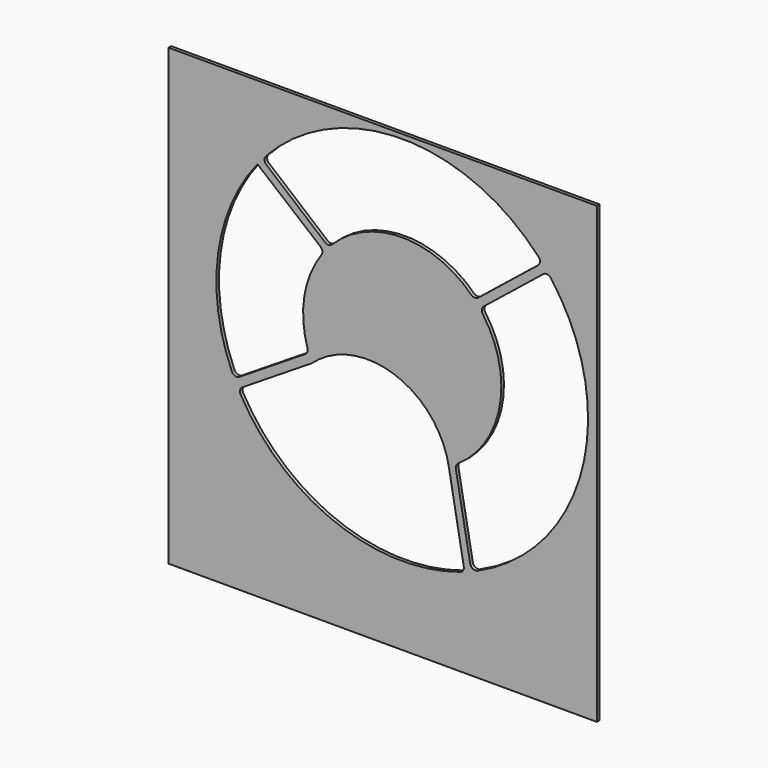
from build123d import *

# Parameters (mm, degrees)
F0_W     = 131.7625
F0_H     = 139.7
F1_DEPTH = 1.016
F2_R     = 1.6002


with BuildPart() as f1:
    # F0 (on Front) → F1 (new body)
    with BuildSketch(Plane.XZ):
        with Locations((-6.007133, -11.380266)):
            Rectangle(F0_W, F0_H)
        with BuildLine():
            ThreePointArc((-27.750563, -12.607008), (-2.499799, -7.357482), (14.326459, -26.903215))
            Line((14.326459, -26.903215), (19.179142, -53.835704))
            ThreePointArc((19.179142, -53.835704), (-20.624326, -53.298778), (-50.421618, -26.903215))
            Line((-50.421618, -26.903215), (-27.750563, -12.607008))
        make_face(mode=Mode.SUBTRACT)
        with BuildLine():
            ThreePointArc((-51.607072, -24.55265), (-56.761106, 6.655776), (-44.527187, 35.8253))
            Line((-44.527187, 35.8253), (-23.965865, 18.832623))
            ThreePointArc((-23.965865, 18.832623), (-30.073453, 4.961633), (-28.745243, -10.136143))
            Line((-28.745243, -10.136143), (-51.607072, -24.55265))
        make_face(mode=Mode.SUBTRACT)
        with BuildLine():
            Line((21.264075, -53.046787), (16.291114, -25.761017))
            ThreePointArc((16.291114, -25.761017), (30.052668, -5.086018), (23.860551, 18.965877))
            Line((23.860551, 18.965877), (44.658046, 35.662045))
            ThreePointArc((44.658046, 35.662045), (55.260707, -14.573153), (21.264075, -53.046787))
        make_face(mode=Mode.SUBTRACT)
        with BuildLine():
            Line((43.080922, 37.552053), (22.251521, 20.830272))
            ThreePointArc((22.251521, 20.830272), (-0.237223, 30.479077), (-22.573055, 20.481396))
            Line((-22.573055, 20.481396), (-43.032863, 37.607117))
            ThreePointArc((-43.032863, 37.607117), (0.036543, 57.149988), (43.080922, 37.552053))
        make_face(mode=Mode.SUBTRACT)
    extrude(amount=F1_DEPTH)

    # F2
    f2_edges = [f1.edges().sort_by_distance(p)[0] for p in [
        (-23.965865, -0.508, 18.832623),
        (-28.745243, -0.508, -10.136143),
        (19.179142, -0.508, -53.835704),
        (21.264075, -0.508, -53.046787),
        (-51.607072, -0.508, -24.55265),
        (22.251521, -0.508, 20.830272),
        (-22.573055, -0.508, 20.481396),
        (23.860551, -0.508, 18.965877),
        (16.291114, -0.508, -25.761017),
        (-43.032863, -0.508, 37.607117),
        (-50.421618, -0.508, -26.903215),
        (43.080922, -0.508, 37.552053),
        (44.658046, -0.508, 35.662045),
    ]]
    fillet(f2_edges, radius=F2_R)


solid = f1.part
